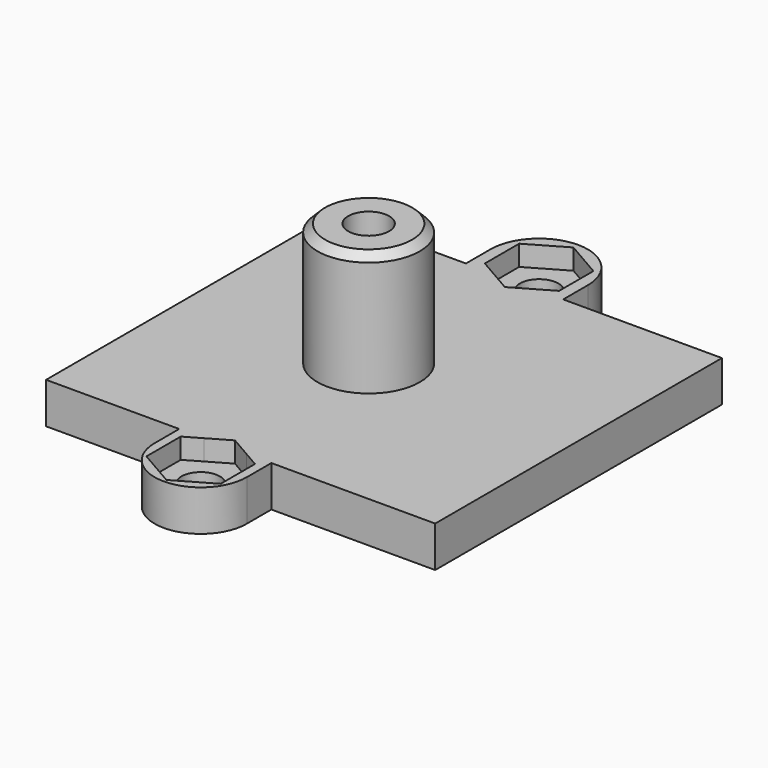
from build123d import *

# Parameters (mm, degrees)
F0_R     = 5
F1_DEPTH = 4
F2_DEPTH = 2
F0_R_2   = 2
F3_DEPTH = 16
F4_SIZE  = 0.75
F5_SIZE  = 0.75


with BuildPart() as f1:
    # F0 (on Top) → F1 (new body)
    with BuildSketch(Plane.XY):
        Polygon((-4.5, 20.5), (-4.5, 17.5), (-1.8038475773, 17.5), (-3.375, 18.4071052742), (-3.375, 20.5), align=None)
        Polygon((3.875, 18.4071052742), (2.3038475773, 17.5), (5, 17.5), (5, 20.5), (3.875, 20.5), align=None)
        with BuildLine():
            ThreePointArc((5, 20.5), (0.25, 25.25), (-4.5, 20.5))
            Line((-4.5, 20.5), (-3.375, 20.5))
            Line((-3.375, 20.5), (-3.375, 22.5928947258))
            Line((-3.375, 22.5928947258), (0.25, 24.6857894516))
            Line((0.25, 24.6857894516), (3.875, 22.5928947258))
            Line((3.875, 22.5928947258), (3.875, 20.5))
            Line((3.875, 20.5), (5, 20.5))
        make_face()
        Polygon((-4.5, 17.5), (-17.5, 17.5), (-17.5, -17.5), (-4.5, -17.5), (-2.0538475773, -17.5), (0, -16.3142105484), (2.0538475773, -17.5), (4.5, -17.5), (20.5, -17.5), (20.5, 17.5), (5, 17.5), (2.3038475773, 17.5), (0.25, 16.3142105484), (-1.8038475773, 17.5), align=None)
        Circle(F0_R, mode=Mode.SUBTRACT)
        Polygon((-2.0538475773, -17.5), (-4.5, -17.5), (-4.5, -20.5), (-3.625, -20.5), (-3.625, -18.4071052742), align=None)
        Polygon((4.5, -17.5), (2.0538475773, -17.5), (3.625, -18.4071052742), (3.625, -20.5), (4.5, -20.5), align=None)
        with BuildLine():
            Line((-3.625, -20.5), (-4.5, -20.5))
            ThreePointArc((-4.5, -20.5), (0, -25), (4.5, -20.5))
            Line((4.5, -20.5), (3.625, -20.5))
            Line((3.625, -20.5), (3.625, -22.5928947258))
            Line((3.625, -22.5928947258), (0, -24.6857894516))
            Line((0, -24.6857894516), (-3.625, -22.5928947258))
            Line((-3.625, -22.5928947258), (-3.625, -20.5))
        make_face()
    extrude(amount=F1_DEPTH)

    # F0 (on Top) → F2 (join)
    with BuildSketch(Plane.XY):
        with BuildLine():
            Line((-3.375, 22.5928947258), (-3.375, 20.5))
            Line((-3.375, 20.5), (-1.625, 20.5))
            ThreePointArc((-1.625, 20.5), (0.25, 22.375), (2.125, 20.5))
            Line((2.125, 20.5), (3.875, 20.5))
            Line((3.875, 20.5), (3.875, 22.5928947258))
            Line((3.875, 22.5928947258), (0.25, 24.6857894516))
            Line((0.25, 24.6857894516), (-3.375, 22.5928947258))
        make_face()
        with BuildLine():
            Line((-3.375, 18.4071052742), (-1.8038475773, 17.5))
            Line((-1.8038475773, 17.5), (2.3038475773, 17.5))
            Line((2.3038475773, 17.5), (3.875, 18.4071052742))
            Line((3.875, 18.4071052742), (3.875, 20.5))
            Line((3.875, 20.5), (2.125, 20.5))
            ThreePointArc((2.125, 20.5), (0.25, 18.625), (-1.625, 20.5))
            Line((-1.625, 20.5), (-3.375, 20.5))
            Line((-3.375, 20.5), (-3.375, 18.4071052742))
        make_face()
        Polygon((2.3038475773, 17.5), (-1.8038475773, 17.5), (0.25, 16.3142105484), align=None)
        Polygon((0, -16.3142105484), (-2.0538475773, -17.5), (2.0538475773, -17.5), align=None)
        with BuildLine():
            Line((2.0538475773, -17.5), (-2.0538475773, -17.5))
            Line((-2.0538475773, -17.5), (-3.625, -18.4071052742))
            Line((-3.625, -18.4071052742), (-3.625, -20.5))
            Line((-3.625, -20.5), (-1.875, -20.5))
            ThreePointArc((-1.875, -20.5), (0, -18.625), (1.875, -20.5))
            Line((1.875, -20.5), (3.625, -20.5))
            Line((3.625, -20.5), (3.625, -18.4071052742))
            Line((3.625, -18.4071052742), (2.0538475773, -17.5))
        make_face()
        with BuildLine():
            Line((-1.875, -20.5), (-3.625, -20.5))
            Line((-3.625, -20.5), (-3.625, -22.5928947258))
            Line((-3.625, -22.5928947258), (0, -24.6857894516))
            Line((0, -24.6857894516), (3.625, -22.5928947258))
            Line((3.625, -22.5928947258), (3.625, -20.5))
            Line((3.625, -20.5), (1.875, -20.5))
            ThreePointArc((1.875, -20.5), (0, -22.375), (-1.875, -20.5))
        make_face()
    extrude(amount=F2_DEPTH)

    # F0 (on Top) → F3 (join)
    with BuildSketch(Plane.XY):
        Circle(F0_R)
        Circle(F0_R_2, mode=Mode.SUBTRACT)
    extrude(amount=F3_DEPTH)

    # F4
    f4_edges = [f1.edges().sort_by_distance(p)[0] for p in [
        (-5, 0, 16),
    ]]
    chamfer(f4_edges, length=F4_SIZE)

    # F5
    f5_edges = [f1.edges().sort_by_distance(p)[0] for p in [
        (-1.875, -20.5, 0),
        (-1.625, 20.5, 0),
        (-2, 0, 0),
    ]]
    chamfer(f5_edges, length=F5_SIZE)


solid = f1.part
